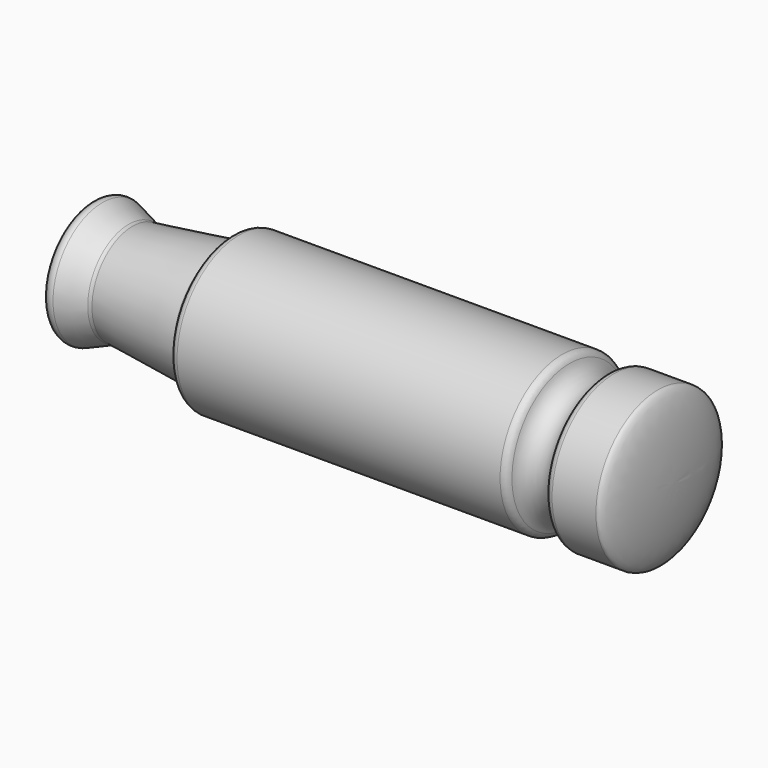
from build123d import *

# Parameters (mm, degrees)
F3_D           = 5.5
F3_DEPTH       = 13
F3_CSINK_D     = 11.2
F3_CSINK_ANGLE = 90
F3_TIP         = 1.6523667023
F4_R           = 1


with BuildPart() as f1:
    # F0 (on Top) → F1 (revolve)
    with BuildSketch(Plane.XY):
        with BuildLine():
            Line((0, 8.5), (0, 0))
            Line((0, 0), (75, 0))
            add(Edge.make_bspline(
                [(75, 0), (75, 10), (73, 10)],
                knots=[4.7123889804, 4.7123889804, 4.7123889804, 6.2831853072, 6.2831853072, 6.2831853072], degree=2, weights=[1, 0.7071067812, 1]))
            Line((73, 10), (66.5, 10))
            ThreePointArc((66.5, 10), (64, 7.5), (61.5, 10))
            Line((61.5, 10), (18, 10))
            Line((18, 10), (18, 8))
            Line((18, 8), (17, 8))
            Line((17, 8), (5, 6.5))
            Line((5, 6.5), (0, 8.5))
        make_face()
    revolve(axis=Axis((45.1035350561, 0, 0), (1, 0, 0)))

    # F3
    with Locations(Plane(origin=(0, 0, 0), x_dir=(0, -1, 0), z_dir=(-1, 0, 0))):
        with Locations((0, 0)):
            CounterSinkHole(F3_D / 2, F3_CSINK_D / 2, depth=F3_DEPTH, counter_sink_angle=F3_CSINK_ANGLE)
            with Locations((0, 0, -(F3_DEPTH + F3_TIP / 2))):  # 118° drill point
                Cone(0, F3_D / 2, F3_TIP, mode=Mode.SUBTRACT)

    # F4
    f4_edges = [f1.edges().sort_by_distance(p)[0] for p in [
        (5, -6.5, 0),
        (18, -10, 0),
        (66.5, -10, 0),
        (61.5, -10, 0),
        (73, -10, 0),
        (0, -8.5, 0),
    ]]
    fillet(f4_edges, radius=F4_R)


solid = f1.part
